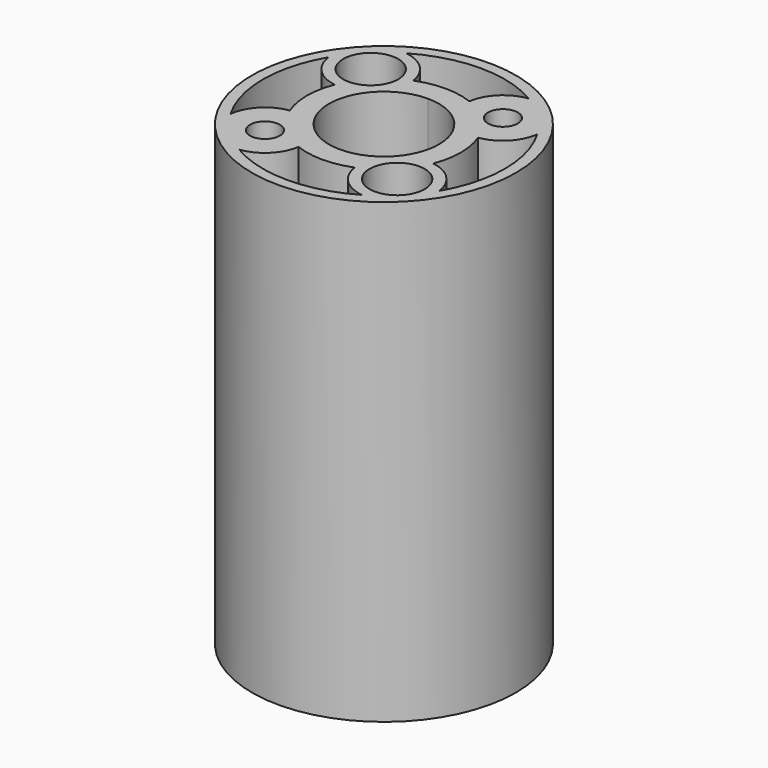
from build123d import *

# Parameters (mm, degrees)
F0_R      = 19.05
F0_R_2    = 2.15265
F1_DEPTH  = 66.04
F4_R      = 3.96875
F5_DEPTH  = 62.865
F6_R      = 3.96875
F7_DEPTH  = 61.595
F9_DEPTH  = 66.04
F10_COUNT = 4
F10_ANGLE = 270


with BuildPart() as f1:
    # F0 (on Top) → F1 (new body)
    with BuildSketch(Plane.XY):
        Circle(F0_R)
        with Locations((-9.5415221286, -9.5415221286)):
            Circle(F0_R_2, mode=Mode.SUBTRACT)
        with Locations((9.5415221286, -9.5415221286)):
            Circle(F0_R_2, mode=Mode.SUBTRACT)
        with Locations((-9.5415221286, 9.5415221286)):
            Circle(F0_R_2, mode=Mode.SUBTRACT)
        with BuildLine():
            ThreePointArc((0, 7.9375), (5.6126600757, 5.6126600757), (7.9375, 0))
            ThreePointArc((7.9375, 0), (-5.6126600757, -5.6126600757), (0, 7.9375))
        make_face(mode=Mode.SUBTRACT)
        with Locations((9.5415221286, 9.5415221286)):
            Circle(F0_R_2, mode=Mode.SUBTRACT)
    extrude(amount=F1_DEPTH)

    # F4 (on face) → F5 (cut, through all)
    with BuildSketch(Plane(origin=(0, 0, 0), x_dir=(1, 0, 0), z_dir=(0, 0, -1))):
        with Locations((9.5415221286, -9.5415221286)):
            Circle(F4_R)
        with Locations((-9.5415221286, 9.5415221286)):
            Circle(F4_R)
    extrude(amount=-F5_DEPTH, mode=Mode.SUBTRACT)

    # F6 (on face) → F7 (cut, through all)
    with BuildSketch(Plane.XY.offset(66.04)):
        with Locations((-9.5415221286, 9.5415221286)):
            Circle(F6_R)
        with Locations((9.5415221286, -9.5415221286)):
            Circle(F6_R)
    extrude(amount=-F7_DEPTH, mode=Mode.SUBTRACT)

    # F8 (on face) → F9 (cut, through all)
    with BuildSketch(Plane(origin=(0, 0, 0), x_dir=(1, 0, 0), z_dir=(0, 0, -1))):
        with BuildLine():
            ThreePointArc((8.8488960712, -15.0544327217), (5.6543471209, -13.5116335278), (4.0444600337, -10.350362278))
            ThreePointArc((4.0444600337, -10.350362278), (0, -11.1125), (-4.0444600337, -10.350362278))
            ThreePointArc((-4.0444600337, -10.350362278), (-5.6543471209, -13.5116335278), (-8.8488960712, -15.0544327217))
            ThreePointArc((-8.8488960712, -15.0544327217), (0, -17.4625), (8.8488960712, -15.0544327217))
        make_face()
    f9 = extrude(amount=-F9_DEPTH, mode=Mode.SUBTRACT)

    # F10: F9 ×4 about axis
    f10_axis = Axis((0, 0, 0), (0, 0, -1))
    for i in range(1, F10_COUNT):
        add(f9.rotate(f10_axis, i * F10_ANGLE / (F10_COUNT - 1)), mode=Mode.SUBTRACT)


solid = f1.part
